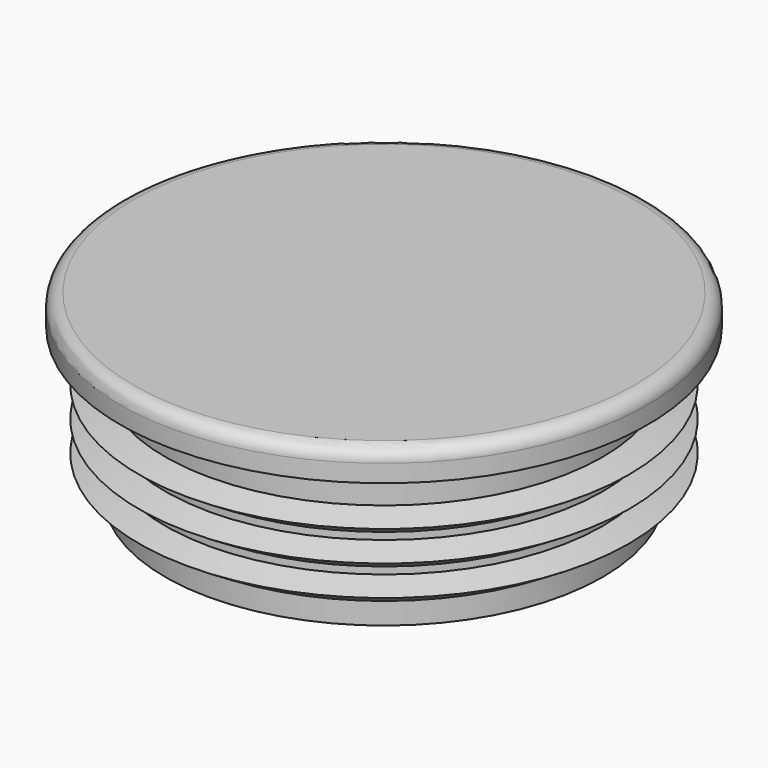
from build123d import *


with BuildPart() as f1:
    # F0 (on Right) → F1 (revolve)
    with BuildSketch(Plane.YZ):
        Polygon((-25, 11.278154), (-25, 12.082125), (-28, 11.278154), align=None)
        with BuildLine():
            Line((0, 0), (0, 20.5))
            Line((0, 20.5), (-28.65, 20.5))
            ThreePointArc((-28.65, 20.5), (-29.71066, 20.06066), (-30.15, 19))
            Line((-30.15, 19), (-30.15, 17))
            Line((-30.15, 17), (-25, 17))
            Line((-25, 17), (-25, 12.082125))
            Line((-25, 12.082125), (-25, 11.278154))
            Line((-25, 11.278154), (-25, 9.414572))
            Line((-25, 9.414572), (-25, 8.610601))
            Line((-25, 8.610601), (-25, 7.80663))
            Line((-25, 7.80663), (-25, 5.943048))
            Line((-25, 5.943048), (-25, 5.139077))
            Line((-25, 5.139077), (-25, 4.335106))
            Line((-25, 4.335106), (-25, 2.471524))
            Line((-25, 2.471524), (-25, 0))
            Line((-25, 0), (0, 0))
        make_face()
        Polygon((-28, 4.335106), (-25, 2.471524), (-25, 4.335106), align=None)
        Polygon((-28, 7.80663), (-25, 7.80663), (-25, 8.610601), align=None)
        Polygon((-25, 9.414572), (-25, 11.278154), (-28, 11.278154), align=None)
        Polygon((-28, 4.335106), (-25, 4.335106), (-25, 5.139077), align=None)
        Polygon((-28, 7.80663), (-25, 5.943048), (-25, 7.80663), align=None)
    revolve(axis=Axis((0, 0, 10.25), (0, 0, 1)))


solid = f1.part
